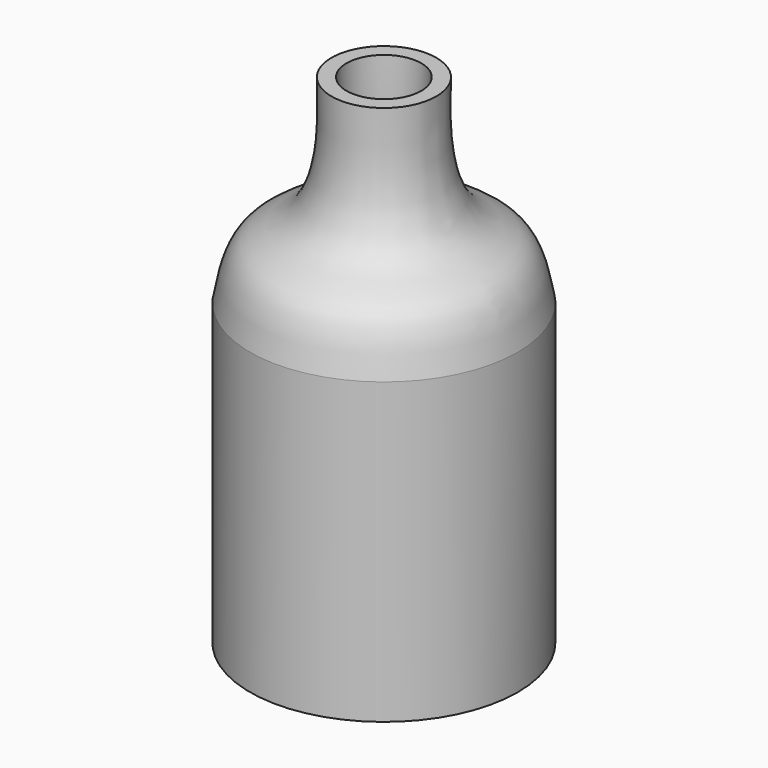
from build123d import *


with BuildPart() as f1:
    # F0 (on Front) → F1 (revolve)
    with BuildSketch(Plane.XZ):
        with BuildLine():
            Line((15.9, 40), (15.9, 0))
            Line((15.9, 0), (17.9, 0))
            Line((17.9, 0), (17.9, 39.9964749813))
            add(Edge.make_bspline(
                [(17.9, 39.9964749813), (17.3828400381, 42.7344110905), (16.4018722738, 47.9278275607), (9.3159620558, 49.4528277292), (6.7841937464, 57.6871531711), (6.9261705947, 63.5177259977), (7, 66.5496831787)],
                knots=[0, 0, 0, 0, 0.2491227408, 0.4725450462, 0.7257180585, 1, 1, 1, 1], degree=3))
            Line((7, 66.5496831787), (5, 66.5496831787))
            add(Edge.make_bspline(
                [(15.9, 40), (15.1583672642, 42.3888288994), (14.4938624661, 48.0697530876), (7.2885632559, 49.4146800272), (4.7938779749, 57.6833873718), (4.924394727, 63.5586524303), (5, 66.5496831787)],
                knots=[0, 0, 0, 0, 0.249081406, 0.4725160105, 0.7257029597, 1, 1, 1, 1], degree=3))
        make_face()
    revolve(axis=Axis((0, 0, 33.2748415894), (0, 0, 1)))


solid = f1.part
